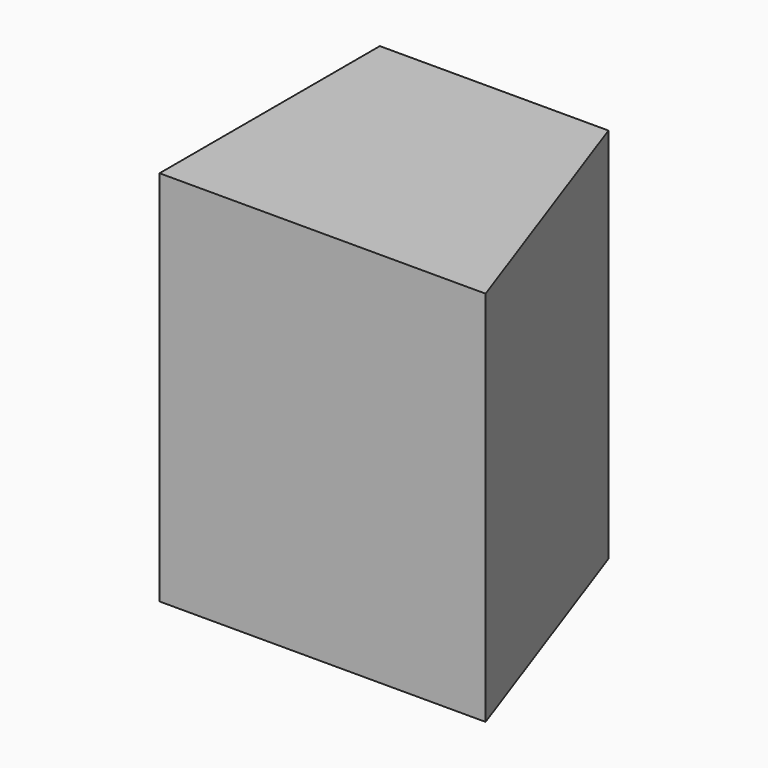
from build123d import *

# Parameters (mm, degrees)
F1_DEPTH = 160.02


with BuildPart() as f1:
    # F0 (on Top) → F1 (new body)
    with BuildSketch(Plane.XY):
        Polygon((-214.224413, -93.108051), (-75.833574, -93.108051), (-117.184296, 23.762582), (-214.224413, 23.762582), align=None)
    extrude(amount=-F1_DEPTH)


solid = f1.part
